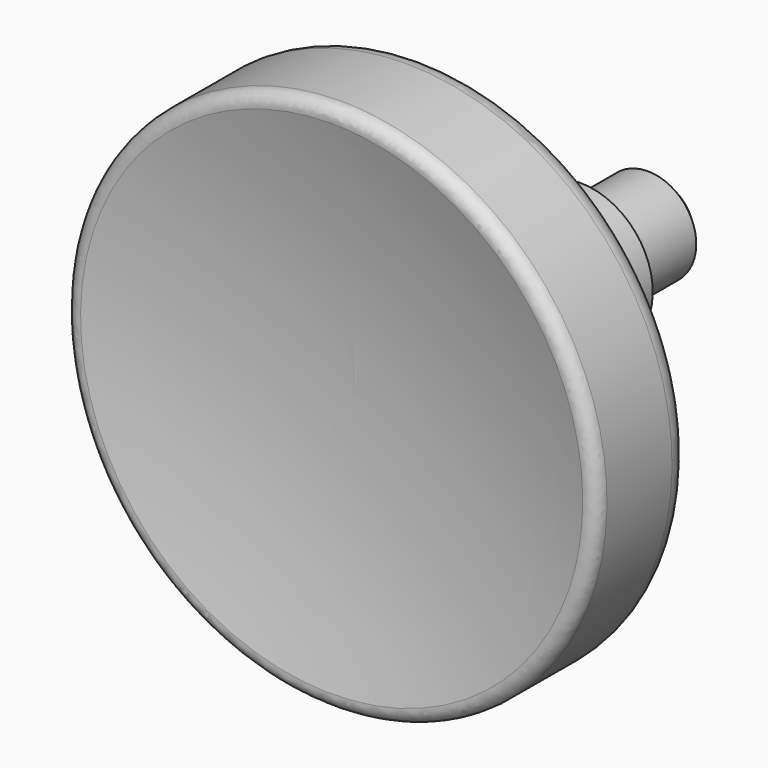
from build123d import *

# Parameters (mm, degrees)
F2_SIZE = 0.5
F3_R    = 1
F4_R    = 0.5


with BuildPart() as f1:
    # F0 (on Right) → F1 (revolve)
    with BuildSketch(Plane.YZ):
        with BuildLine():
            Line((8.634848, 3), (8.634848, 11))
            Line((8.634848, 11), (3.634848, 11))
            ThreePointArc((3.634848, 11), (4.657408, 5.542194), (5, 0))
            Line((5, 0), (20.634848, 0))
            Line((20.634848, 0), (20.634848, 2))
            Line((20.634848, 2), (16.634848, 2))
            Line((16.634848, 2), (16.634848, 3))
            Line((16.634848, 3), (8.634848, 3))
        make_face()
    revolve(axis=Axis((0, 12.817424, 0), (0, -1, 0)))

    # F2
    f2_edges = [f1.edges().sort_by_distance(p)[0] for p in [
        (0, 20.634848, -2),
    ]]
    chamfer(f2_edges, length=F2_SIZE)

    # F3
    f3_edges = [f1.edges().sort_by_distance(p)[0] for p in [
        (0, 8.634848, -11),
    ]]
    fillet(f3_edges, radius=F3_R)

    # F4
    f4_edges = [f1.edges().sort_by_distance(p)[0] for p in [
        (0, 3.634848, -11),
    ]]
    fillet(f4_edges, radius=F4_R)


solid = f1.part
